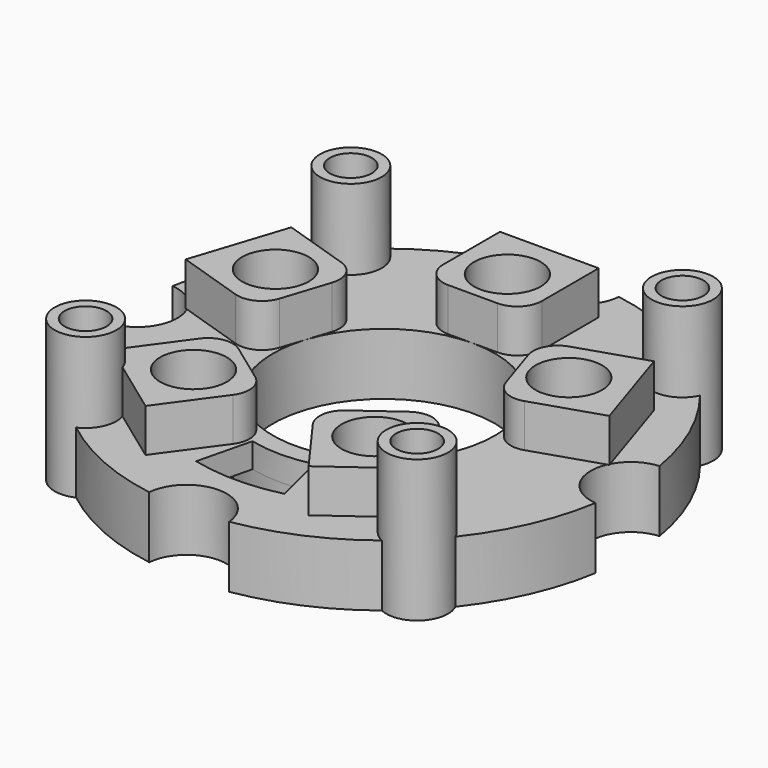
from build123d import *

# Parameters (mm, degrees)
SKETCH_R              = 20
SKETCH_R_2            = 9
PAD_DEPTH             = 5
POCKET_DEPTH          = 5
POLARPATTERN_COUNT    = 4
PAD001_DEPTH          = 3.5
POLARPATTERN001_COUNT = 5
SKETCH003_R           = 2.7
POCKET001_DEPTH       = 121.431206
POLARPATTERN002_COUNT = 5
SKETCH004_R           = 15
SKETCH004_R_2         = 10.5
POCKET002_DEPTH       = 3
POCKET003_DEPTH       = 5.501
SKETCH006_R           = 2.5
PAD002_DEPTH          = 11.5
POLARPATTERN003_COUNT = 4
SKETCH007_R           = 1.7
POCKET004_DEPTH       = 125.488856
POLARPATTERN004_COUNT = 4


with BuildPart() as part:
    # Sketch → Pad (new body)
    with BuildSketch(Plane.XY):
        Circle(SKETCH_R)
        Circle(SKETCH_R_2, mode=Mode.SUBTRACT)
    extrude(amount=PAD_DEPTH)

    # Sketch001 → Pocket (cut)
    with BuildSketch(Plane.XY.offset(5)):
        with BuildLine():
            Line((3.25, 20), (-3.25, 20))
            ThreePointArc((-3.25, 20), (0, 16.75), (3.25, 20))
        make_face()
    pocket = extrude(amount=-POCKET_DEPTH, mode=Mode.SUBTRACT)

    # PolarPattern: Pocket ×4 about axis
    polarpattern_axis = Axis((0, 0, 5), (0, 0, 1))
    for i in range(1, POLARPATTERN_COUNT):
        add(pocket.rotate(polarpattern_axis, i * 360 / POLARPATTERN_COUNT), mode=Mode.SUBTRACT)

    # Sketch002 → Pad001 (new body)
    with BuildSketch(Plane.XY.offset(5)):
        with BuildLine():
            Line((-4, 16.75), (4, 16.75))
            Line((4, 16.75), (4, 11))
            ThreePointArc((2, 9), (3.414214, 9.585786), (4, 11))
            Line((2, 9), (-2, 9))
            ThreePointArc((-4, 11), (-3.414214, 9.585786), (-2, 9))
            Line((-4, 11), (-4, 16.75))
        make_face()
    pad001 = extrude(amount=PAD001_DEPTH)

    # PolarPattern001: Pad001 ×5 about axis
    polarpattern001_axis = Axis((0, 0, 5), (0, 0, 1))
    for i in range(1, POLARPATTERN001_COUNT):
        add(pad001.rotate(polarpattern001_axis, i * 360 / POLARPATTERN001_COUNT))

    # Sketch003 → Pocket001 (cut, through all)
    with BuildSketch(Plane.XY.offset(8.5)):
        with Locations((0, 12.5)):
            Circle(SKETCH003_R)
    pocket001 = extrude(amount=-POCKET001_DEPTH, mode=Mode.SUBTRACT)

    # PolarPattern002: Pocket001 ×5 about axis
    polarpattern002_axis = Axis((0, 0, 8.5), (0, 0, 1))
    for i in range(1, POLARPATTERN002_COUNT):
        add(pocket001.rotate(polarpattern002_axis, i * 360 / POLARPATTERN002_COUNT), mode=Mode.SUBTRACT)

    # Sketch004 → Pocket002 (cut)
    with BuildSketch(Plane(origin=(0, 0, 0), x_dir=(1, 0, 0), z_dir=(0, 0, -1))):
        Circle(SKETCH004_R)
        Circle(SKETCH004_R_2, mode=Mode.SUBTRACT)
    extrude(amount=-POCKET002_DEPTH, mode=Mode.SUBTRACT)

    # Sketch005 → Pocket003 (cut, through all)
    with BuildSketch(Plane(origin=(0, 0, 3), x_dir=(1, 0, 0), z_dir=(0, 0, -1))):
        with BuildLine():
            ThreePointArc((2.5, 10.198039), (0, 10.5), (-2.5, 10.198039))
            Line((-3.571429, 14.568627), (-2.5, 10.198039))
            ThreePointArc((3.571429, 14.568627), (0, 15), (-3.571429, 14.568627))
            Line((2.5, 10.198039), (3.571429, 14.568627))
        make_face()
    extrude(amount=-POCKET003_DEPTH, mode=Mode.SUBTRACT)

    # Sketch006 → Pad002 (new body)
    with BuildSketch(Plane(origin=(0, 0, 0), x_dir=(1, 0, 0), z_dir=(0, 0, -1))):
        with Locations((-13.435029, 13.435029)):
            Circle(SKETCH006_R)
    pad002 = extrude(amount=-PAD002_DEPTH)

    # PolarPattern003: Pad002 ×4 about axis
    polarpattern003_axis = Axis((0, 0, 0), (0, 0, -1))
    for i in range(1, POLARPATTERN003_COUNT):
        add(pad002.rotate(polarpattern003_axis, i * 360 / POLARPATTERN003_COUNT))

    # Sketch007 → Pocket004 (cut, through all)
    with BuildSketch(Plane(origin=(0, 0, 0), x_dir=(1, 0, 0), z_dir=(0, 0, -1))):
        with Locations((-13.435029, 13.435029)):
            Circle(SKETCH007_R)
    pocket004 = extrude(amount=-POCKET004_DEPTH, mode=Mode.SUBTRACT)

    # PolarPattern004: Pocket004 ×4 about axis
    polarpattern004_axis = Axis((0, 0, 0), (0, 0, -1))
    for i in range(1, POLARPATTERN004_COUNT):
        add(pocket004.rotate(polarpattern004_axis, i * 360 / POLARPATTERN004_COUNT), mode=Mode.SUBTRACT)


solid = part.part
